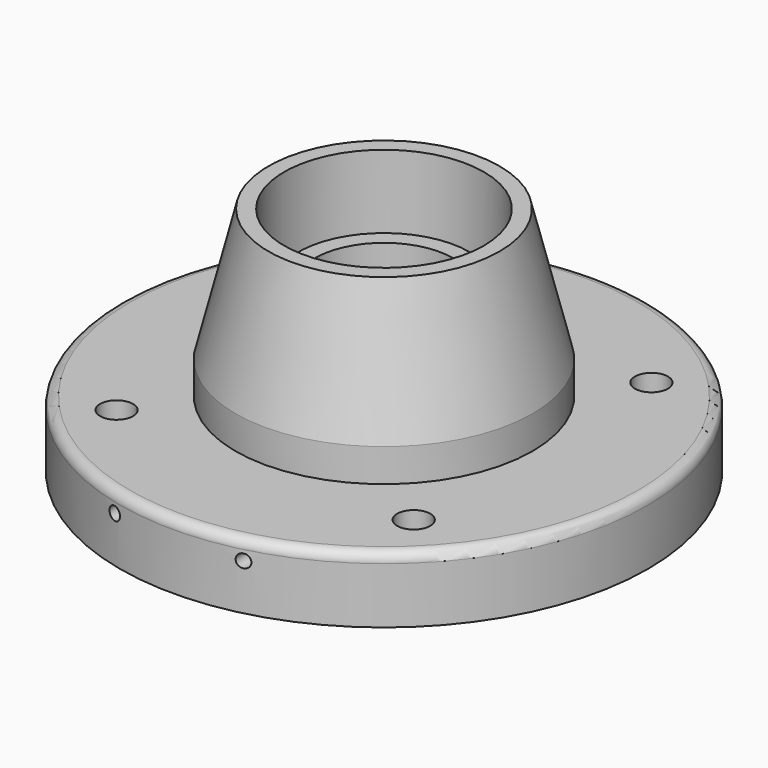
from build123d import *

# Parameters (mm, degrees)
F0_R     = 45
F0_R_2   = 30.25
F1_DEPTH = 50
F2_R     = 80
F2_R_2   = 5
F3_DEPTH = 20
F4_R     = 26
F4_R_2   = 21
F5_DEPTH = 30
F6_SIZE2 = 40
F6_SIZE  = 10
F7_R     = 2
F8_DEPTH = 85
F9_R     = 3


with BuildPart() as f1:
    # F0 (on Top) → F1 (new body)
    with BuildSketch(Plane.XY):
        Circle(F0_R)
        Circle(F0_R_2, mode=Mode.SUBTRACT)
    extrude(amount=F1_DEPTH)

    # F2 (on Top) → F3 (join)
    with BuildSketch(Plane.XY):
        Circle(F2_R)
        with Locations((-45, -45)):
            Circle(F2_R_2, mode=Mode.SUBTRACT)
        with Locations((45, -45)):
            Circle(F2_R_2, mode=Mode.SUBTRACT)
        with Locations((-45, 45)):
            Circle(F2_R_2, mode=Mode.SUBTRACT)
        with BuildLine():
            ThreePointArc((40, 45), (45, 50), (50, 45))
            ThreePointArc((50, 45), (45, 40), (40, 45))
        make_face(mode=Mode.SUBTRACT)
    extrude(amount=-F3_DEPTH)

    # F4 (on Top) → F5 (join)
    with BuildSketch(Plane.XY):
        Circle(F4_R)
        Circle(F4_R_2, mode=Mode.SUBTRACT)
    extrude(amount=F5_DEPTH)

    # F6
    f6_edges = [f1.edges().sort_by_distance(p)[0] for p in [
        (-45, 0, 50),
    ]]
    f6_side = f1.faces().sort_by_distance((-43.727208, 0, 50))[0]
    chamfer(f6_edges, length=F6_SIZE, length2=F6_SIZE2, reference=f6_side)

    # F7 (on Front) → F8 (cut, symmetric)
    with BuildSketch(Plane.XZ):
        with BuildLine():
            ThreePointArc((17.5, -6), (19.5, -8), (21.5, -6))
            ThreePointArc((21.5, -6), (19.5, -4), (17.5, -6))
        make_face()
        with Locations((-19.5, -6)):
            Circle(F7_R)
    extrude(amount=F8_DEPTH, both=True, mode=Mode.SUBTRACT)

    # F9
    f9_edges = [f1.edges().sort_by_distance(p)[0] for p in [
        (-80, 0, 0),
    ]]
    fillet(f9_edges, radius=F9_R)


solid = f1.part
